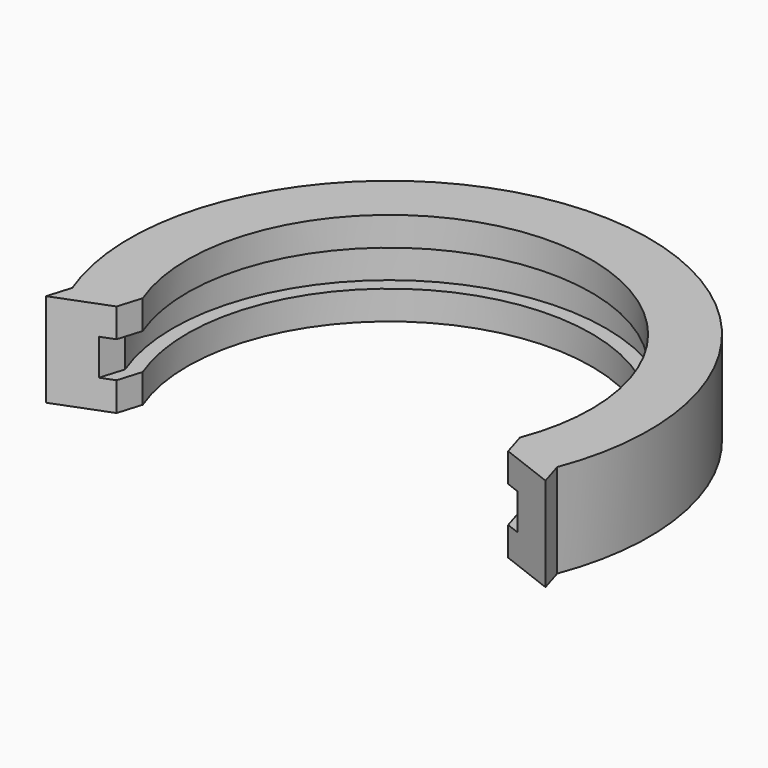
from build123d import *


with BuildPart() as part:
    # AdditivePipe: sweep along a path in Sketch001
    with BuildLine(Plane.XY) as additivepipe_path:
        Line((14.5, -7.028732), (14, -5.385165))
        ThreePointArc((14, -5.385165), (0, 15), (-14, -5.385165))
        Line((-14, -5.385165), (-14.5, -7.028732))
    # Sketch → AdditivePipe (sweep)
    with BuildSketch(Plane.XZ):
        Polygon((14, 0), (18, 0), (18, 6.5), (14, 6.5), (14, 4.5), (15, 4.5), (15, 2), (14, 2), align=None)
    sweep(path=additivepipe_path.line)


solid = part.part
